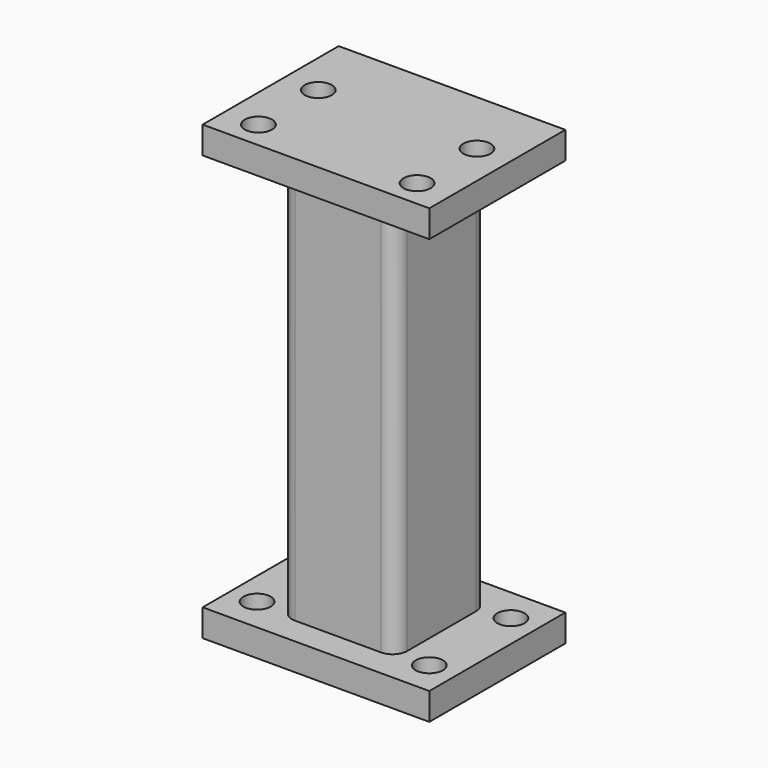
from build123d import *

# Parameters (mm, degrees)
F0_W     = 100
F0_H     = 75
F1_DEPTH = 12
F3_DEPTH = 175.5
F5_W     = 100
F5_H     = 75
F6_DEPTH = 12
F7_D     = 12
F7_DEPTH = 12.001
F9_D     = 12
F9_DEPTH = 12
F9_TIP   = 3.6051637142


with BuildPart() as f1:
    # F0 (on Top) → F1 (new body)
    with BuildSketch(Plane.XY):
        Rectangle(F0_W, F0_H)
    extrude(amount=-F1_DEPTH)

    # F2 (on face) → F3 (join)
    with BuildSketch(Plane.XY):
        with BuildLine():
            Line((-19.05, -25.4), (19.05, -25.4))
            ThreePointArc((19.05, -25.4), (23.5401280605, -23.5401280605), (25.4, -19.05))
            Line((25.4, -19.05), (25.4, 19.05))
            ThreePointArc((25.4, 19.05), (23.5401280605, 23.5401280605), (19.05, 25.4))
            Line((19.05, 25.4), (-19.05, 25.4))
            ThreePointArc((-19.05, 25.4), (-23.5401280605, 23.5401280605), (-25.4, 19.05))
            Line((-25.4, 19.05), (-25.4, -19.05))
            ThreePointArc((-25.4, -19.05), (-23.5401280605, -23.5401280605), (-19.05, -25.4))
        make_face()
        with BuildLine():
            Line((-12.7, 19.05), (12.7, 19.05))
            ThreePointArc((12.7, 19.05), (17.1901280605, 17.1901280605), (19.05, 12.7))
            Line((19.05, 12.7), (19.05, -12.7))
            ThreePointArc((19.05, -12.7), (17.1901280605, -17.1901280605), (12.7, -19.05))
            Line((12.7, -19.05), (-12.7, -19.05))
            ThreePointArc((-12.7, -19.05), (-17.1901280605, -17.1901280605), (-19.05, -12.7))
            Line((-19.05, -12.7), (-19.05, 12.7))
            ThreePointArc((-19.05, 12.7), (-17.1901280605, 17.1901280605), (-12.7, 19.05))
        make_face(mode=Mode.SUBTRACT)
    extrude(amount=F3_DEPTH)

    # F5 (on face) → F6 (join)
    with BuildSketch(Plane.XY.offset(175.5)):
        Rectangle(F5_W, F5_H)
        with BuildLine():
            Line((19.05, -25.4), (-19.05, -25.4))
            ThreePointArc((-19.05, -25.4), (-23.5401280605, -23.5401280605), (-25.4, -19.05))
            Line((-25.4, -19.05), (-25.4, 19.05))
            ThreePointArc((-25.4, 19.05), (-23.5401280605, 23.5401280605), (-19.05, 25.4))
            Line((-19.05, 25.4), (19.05, 25.4))
            ThreePointArc((19.05, 25.4), (23.5401280605, 23.5401280605), (25.4, 19.05))
            Line((25.4, 19.05), (25.4, -19.05))
            ThreePointArc((25.4, -19.05), (23.5401280605, -23.5401280605), (19.05, -25.4))
        make_face(mode=Mode.SUBTRACT)
        with BuildLine():
            ThreePointArc((-25.4, -19.05), (-23.5401280605, -23.5401280605), (-19.05, -25.4))
            Line((-19.05, -25.4), (19.05, -25.4))
            ThreePointArc((19.05, -25.4), (23.5401280605, -23.5401280605), (25.4, -19.05))
            Line((25.4, -19.05), (25.4, 19.05))
            ThreePointArc((25.4, 19.05), (23.5401280605, 23.5401280605), (19.05, 25.4))
            Line((19.05, 25.4), (-19.05, 25.4))
            ThreePointArc((-19.05, 25.4), (-23.5401280605, 23.5401280605), (-25.4, 19.05))
            Line((-25.4, 19.05), (-25.4, -19.05))
        make_face()
        with BuildLine():
            Line((-19.05, -12.7), (-19.05, 12.7))
            ThreePointArc((-19.05, 12.7), (-17.1901280605, 17.1901280605), (-12.7, 19.05))
            Line((-12.7, 19.05), (12.7, 19.05))
            ThreePointArc((12.7, 19.05), (17.1901280605, 17.1901280605), (19.05, 12.7))
            Line((19.05, 12.7), (19.05, -12.7))
            ThreePointArc((19.05, -12.7), (17.1901280605, -17.1901280605), (12.7, -19.05))
            Line((12.7, -19.05), (-12.7, -19.05))
            ThreePointArc((-12.7, -19.05), (-17.1901280605, -17.1901280605), (-19.05, -12.7))
        make_face(mode=Mode.SUBTRACT)
        with BuildLine():
            ThreePointArc((-12.7, 19.05), (-17.1901280605, 17.1901280605), (-19.05, 12.7))
            Line((-19.05, 12.7), (-19.05, -12.7))
            ThreePointArc((-19.05, -12.7), (-17.1901280605, -17.1901280605), (-12.7, -19.05))
            Line((-12.7, -19.05), (12.7, -19.05))
            ThreePointArc((12.7, -19.05), (17.1901280605, -17.1901280605), (19.05, -12.7))
            Line((19.05, -12.7), (19.05, 12.7))
            ThreePointArc((19.05, 12.7), (17.1901280605, 17.1901280605), (12.7, 19.05))
            Line((12.7, 19.05), (-12.7, 19.05))
        make_face()
    extrude(amount=F6_DEPTH)

    # F7 (through all, one way)
    with BuildSketch(Plane.XY):
        with Locations((-38, 22.5), (38, 22.5), (38, -22.5), (-38, -22.5)):
            Circle(F7_D / 2)
    extrude(amount=-F7_DEPTH, mode=Mode.SUBTRACT)

    # F9
    with Locations(Plane.XY.offset(187.5)):
        with Locations((-35, 7.5), (-35, -25.5), (35, -25.5), (35, 7.5)):
            Hole(F9_D / 2, depth=F9_DEPTH)
            with Locations((0, 0, -(F9_DEPTH + F9_TIP / 2))):  # 118° drill point
                Cone(0, F9_D / 2, F9_TIP, mode=Mode.SUBTRACT)


solid = f1.part
